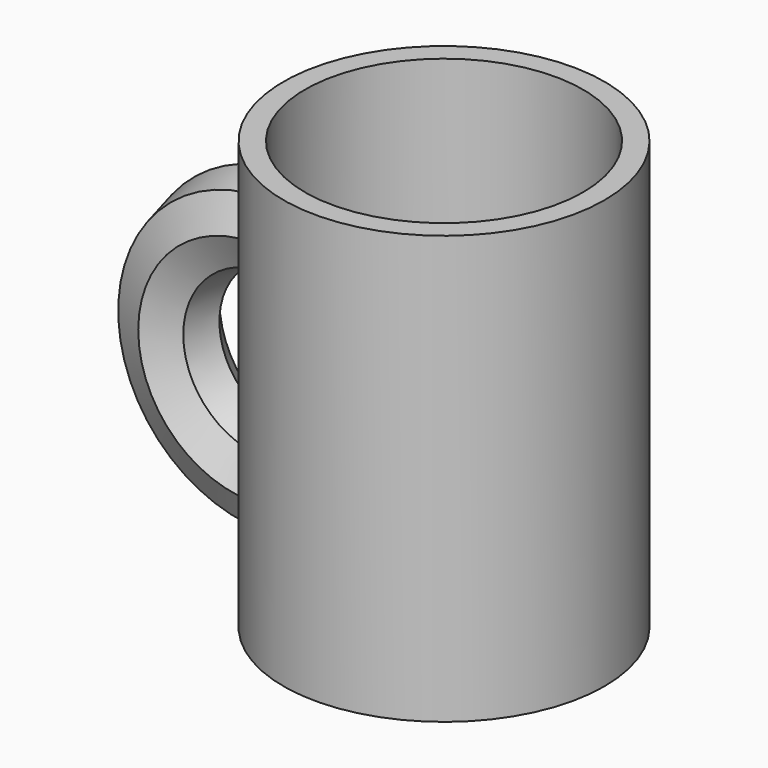
from build123d import *

# Parameters (mm, degrees)
F0_W     = 19.05
F0_H     = 50.8
F2_T     = -2.54
F4_ANGLE = 180


with BuildPart() as f1:
    # F0 (on Front) → F1 (revolve)
    with BuildSketch(Plane.XZ):
        with Locations((28.321, 29.9166932978)):
            Rectangle(F0_W, F0_H)
    revolve(axis=Axis((18.796, 0, 29.9166932978), (0, 0, -1)))

    # F2
    f2_openings = [f1.faces().sort_by_distance(p)[0] for p in [
        (18.796, 0, 55.316693),
    ]]
    offset(amount=F2_T, openings=f2_openings)

    # F3 (on Right) → F4 (revolve)
    with BuildSketch(Plane.YZ):
        Polygon((-4.9335755283, 13.4986876266), (-3.0797308855, 9.639682645), (1.0932139292, 8.683026499), (4.4429463577, 11.3491007788), (4.4470495593, 15.6302971737), (1.1024337395, 18.3027874778), (-3.0723371717, 17.3541319833), align=None)
    revolve(axis=Axis((0, -0.516686556, 27.0530247144), (0, 1, 0)), revolution_arc=F4_ANGLE)


solid = f1.part
